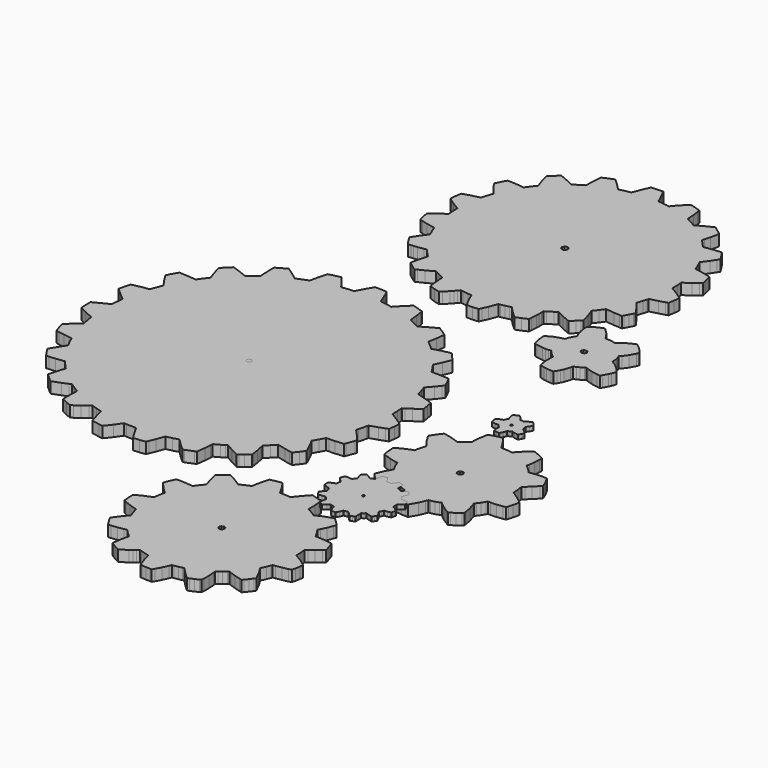
from build123d import *

# Parameters (mm, degrees)
F1_DEPTH = 4
F3_DEPTH = 4
F4_DEPTH = 4
F5_DEPTH = 4
F6_DEPTH = 4
F7_DEPTH = 4
F8_SCALE = 0.4
F9_SCALE = 0.4


with BuildPart() as f1:
    # F0 (on Top) → F1 (new body)
    with BuildSketch(Plane.XY):
        Polygon((23.9108488, -18.7886594), (23.9146842, -18.6433968), (23.8595916, -16.4864796), (23.7738158, -15.0065232), (23.7226856, -14.3345154), (24.5407942, -13.8230102), (26.3172956, -12.6499366), (28.8414714, -10.826115), (28.5121604, -8.7039196), (28.2519374, -7.2499474), (28.1538426, -6.773291), (28.1124914, -6.593332), (25.0680982, -5.5582312), (22.9747572, -4.9454308), (22.01545, -4.6955456), (21.7918792, -3.9081456), (21.3561168, -2.4926798), (20.8814416, -1.0893044), (20.6540354, -0.4556506), (22.6782376, 1.862709), (24.0355374, 3.534664), (24.6240046, 4.3075098), (23.7385098, 6.2651894), (22.764369, 8.179943), (21.7655648, 8.255381), (19.5552568, 8.3500214), (16.3961826, 8.3606386), (16.3210494, 8.4848192), (15.1572976, 10.2996238), (13.9192508, 12.0644412), (15.2479248, 14.8485098), (16.461613, 17.7282348), (16.3474654, 17.8732434), (16.0370774, 18.2477664), (14.087983, 20.4653388), (13.6251442, 20.9512662), (10.4994456, 20.2622658), (7.4361802, 19.4054222), (6.8437506, 19.971131), (4.5915072, 21.8988132), (4.0614854, 22.3148906), (4.6034706, 25.3661672), (4.9877726, 28.4496002), (3.8772592, 29.2330632), (1.9702526, 30.455997), (1.3988288, 30.8078886), (-1.4376146, 29.2856666), (-3.3132522, 28.1768296), (-4.151249, 27.645868), (-4.8799496, 28.0190702), (-6.2114938, 28.668218), (-8.006969, 29.4786558), (-8.1793334, 29.5463722), (-8.4907628, 32.6074278), (-8.7848186, 34.7417644), (-8.947658, 35.699065), (-10.9832648, 36.3875066), (-13.0477514, 36.9831366), (-15.362555, 34.7560646), (-17.5273208, 32.4503542), (-17.6686972, 32.4831456), (-17.849977, 32.5209154), (-19.7894956, 32.8667872), (-21.2554312, 33.0812902), (-21.923756, 33.166177), (-22.2601028, 34.0703154), (-23.05177, 36.0464608), (-24.3301012, 38.885495), (-26.4737088, 38.990524), (-27.9489154, 39.027354), (-28.6194754, 39.0279382), (-30.2497744, 36.2523532), (-31.7167006, 33.443418), (-34.0098888, 33.2503526), (-36.1485942, 32.9788774), (-36.7128806, 33.750885), (-38.0022862, 35.4296726), (-39.3599162, 37.0962682), (-39.9987008, 37.8454158), (-42.092499, 37.3626888), (-43.5215284, 36.9898168), (-44.167552, 36.806505), (-44.444666, 35.839527), (-44.994195, 33.710118), (-45.6448668, 30.6039012), (-45.9578456, 30.498288), (-46.4172808, 30.3335182), (-48.5317292, 29.4999156), (-49.7759482, 28.9416744), (-50.5316236, 29.5377616), (-52.2371828, 30.8222142), (-54.8022526, 32.580199), (-55.3996606, 32.2738242), (-57.9704708, 30.820106), (-58.3870054, 30.5686714), (-58.5425042, 30.4691796), (-58.4923138, 27.2542), (-58.4393802, 26.0959854), (-58.2780902, 24.0884964), (-59.508771, 23.214203), (-61.2976168, 21.8099894), (-61.6749846, 21.4999316), (-61.8149386, 21.3784434), (-64.6812016, 22.5122994), (-67.6328594, 23.5241846), (-69.1819038, 22.0371162), (-70.663943, 20.483068), (-70.4009514, 19.51609), (-69.7494414, 17.3981618), (-69.0473854, 15.3382726), (-68.704587, 14.4154398), (-70.1268092, 12.6059692), (-71.3766162, 10.8490766), (-72.3355424, 10.969625), (-74.4390942, 11.1702342), (-77.5653008, 11.358372), (-77.6617446, 11.201019), (-79.031846, 8.8139524), (-79.6522918, 7.604252), (-79.1342334, 6.741287), (-77.955013, 4.886452), (-76.1289308, 2.2892258), (-76.4598928, 1.540637), (-77.0027924, 0.1621536), (-77.520292, -1.2256008), (-77.7358872, -1.8635472), (-80.791939, -2.3768812), (-83.8255626, -3.0513782), (-84.008722, -3.6974526), (-84.3679034, -5.1299872), (-84.807806, -7.0441312), (-84.840445, -7.2258428), (-82.4493144, -9.3845634), (-79.9938456, -11.3869724), (-80.2655494, -13.6716516), (-80.4293286, -15.8220156), (-81.3003962, -16.219424), (-83.2036436, -17.1440094), (-85.9747836, -18.6100974), (-85.9023174, -21.5436958), (-85.8033844, -22.8988366), (-82.9478148, -24.3404136), (-80.03032, -25.6117344), (-79.9276786, -26.4241534), (-79.4066992, -29.3411656), (-79.254731, -29.9972476), (-81.5937408, -32.0196972), (-83.150329, -33.4850232), (-83.8437998, -34.1712042), (-83.2345808, -36.2314744), (-82.5456566, -38.2669288), (-81.5571648, -38.474904), (-79.3806896, -38.8714996), (-77.2329418, -39.1955782), (-76.2487172, -39.31158), (-75.2950488, -41.4047432), (-74.3124244, -43.3231036), (-74.8541302, -44.1171076), (-75.9991368, -45.8958696), (-77.6012418, -48.5889554), (-76.4423668, -50.3975116), (-75.6102374, -51.6168894), (-75.2213634, -52.1639292), (-74.218165, -52.1001498), (-72.0254084, -51.9003534), (-68.8838602, -51.4736842), (-68.7941982, -51.5879588), (-68.3654462, -52.1075412), (-66.872866, -53.8234382), (-65.9307546, -54.8106854), (-66.2409902, -55.7236122), (-66.876041, -57.7552312), (-67.6811448, -60.7649788), (-67.1951158, -61.2276906), (-64.9675104, -63.1656598), (-64.440181, -63.580772), (-61.4312716, -62.4683282), (-59.4148672, -61.61532), (-58.514742, -61.2069388), (-57.8475094, -61.6818426), (-55.363999, -63.299594), (-54.7796974, -63.6348232), (-54.8961818, -66.7214058), (-54.889781, -68.8620416), (-54.8616378, -69.836538), (-52.9407628, -70.7980804), (-50.98288, -71.6830926), (-50.1564148, -71.1043282), (-48.3800658, -69.7846204), (-46.6762846, -68.4363884), (-45.919898, -67.7978578), (-43.7400192, -68.531232), (-41.6670236, -69.1195976), (-41.4578546, -70.0617598), (-40.9391358, -72.1100412), (-40.0637248, -75.1172742), (-39.8834356, -75.156949), (-37.1736112, -75.6409714), (-35.8259888, -75.8179078), (-33.839023, -73.3105722), (-32.0063622, -70.7080628), (-31.1895744, -70.77075), (-28.2244292, -70.8525888), (-27.5504148, -70.8349358), (-26.0443726, -73.5315776), (-24.9266202, -75.3605808), (-24.3965984, -76.1773178), (-22.2561912, -76.0065028), (-20.1252836, -75.7361198), (-19.7176898, -74.8228374), (-18.8847476, -72.7689934), (-17.8105308, -69.8006986), (-15.5689554, -69.2850532), (-13.491972, -68.7121054), (-12.8239012, -69.4107578), (-11.3156238, -70.9011536), (-9.0108532, -73.0072708), (-8.3765136, -72.7872814), (-5.6322976, -71.6931764), (-5.0202846, -71.4169768), (-4.6251114, -68.237989), (-4.4601892, -66.0507442), (-4.409694, -65.0649194), (-4.2804842, -64.9987778), (-2.3892764, -63.9658868), (-1.107694, -63.2219716), (-0.5407914, -62.857888), (2.1510244, -64.3797036), (4.0538146, -65.3519902), (4.9334166, -65.7750272), (5.4803548, -65.3860008), (6.667119, -64.5081514), (8.3554316, -63.1807982), (8.2158332, -62.175136), (7.8624684, -59.9947492), (7.4482198, -57.8617334), (7.226046, -56.8927488), (8.879459, -55.2920154), (10.3669846, -53.7307536), (13.3522212, -54.4590478), (15.459837, -54.896131), (16.4203634, -55.0674286), (17.7473102, -53.3787858), (19.0032132, -51.6368284), (18.6109356, -50.7138686), (17.6849786, -48.708564), (16.242538, -45.8937614), (16.3210494, -45.7716128), (17.3980094, -43.9043572), (18.3988456, -41.995852), (19.364833, -41.9843966), (21.4852504, -41.9009576), (24.5965472, -41.6551364), (24.8701052, -41.0420058), (25.9449316, -38.290119), (26.1606284, -37.6541538), (24.1068606, -35.1940622), (22.6226624, -33.5805526), (21.9361004, -32.8704448), (22.1600776, -32.0831718), (22.8463856, -29.2010338), (22.9658418, -28.5381954), (25.9089906, -27.6080474), (27.9265126, -26.8816836), (28.8330386, -26.5268202), (29.0960556, -24.3952268), (29.2593014, -22.254083), (28.4465522, -21.6710514), (26.6032488, -20.4414882), align=None)
    extrude(amount=F1_DEPTH)


with BuildPart() as f3:
    # F2 (on Top) → F3 (new body)
    with BuildSketch(Plane.XY):
        Polygon((26.6032488, -20.4414882), (23.9108488, -18.7886594), (23.9146842, -18.6433968), (23.8595916, -16.4864796), (23.7738158, -15.0065232), (23.7226856, -14.3345154), (24.5407942, -13.8230102), (26.3172956, -12.6499366), (28.8414714, -10.826115), (28.5121604, -8.7039196), (28.2519374, -7.2499474), (28.1538426, -6.773291), (28.1124914, -6.593332), (25.0680982, -5.5582312), (22.9747572, -4.9454308), (22.01545, -4.6955456), (21.7918792, -3.9081456), (21.3561168, -2.4926798), (20.8814416, -1.0893044), (20.6540354, -0.4556506), (22.6782376, 1.862709), (24.0355374, 3.534664), (24.6240046, 4.3075098), (23.7385098, 6.2651894), (22.764369, 8.179943), (21.7655648, 8.255381), (19.5552568, 8.3500214), (16.3961826, 8.3606386), (16.3210494, 8.4848192), (15.1572976, 10.2996238), (13.9192508, 12.0644412), (15.2479248, 14.8485098), (16.461613, 17.7282348), (16.3474654, 17.8732434), (16.0370774, 18.2477664), (14.087983, 20.4653388), (13.6251442, 20.9512662), (10.4994456, 20.2622658), (7.4361802, 19.4054222), (6.8437506, 19.971131), (4.5915072, 21.8988132), (4.0614854, 22.3148906), (4.6034706, 25.3661672), (4.9877726, 28.4496002), (3.8772592, 29.2330632), (1.9702526, 30.455997), (1.3988288, 30.8078886), (-1.4376146, 29.2856666), (-3.3132522, 28.1768296), (-4.151249, 27.645868), (-4.8799496, 28.0190702), (-6.2114938, 28.668218), (-8.006969, 29.4786558), (-8.1793334, 29.5463722), (-8.4907628, 32.6074278), (-8.7848186, 34.7417644), (-8.947658, 35.699065), (-10.9832648, 36.3875066), (-13.0477514, 36.9831366), (-15.362555, 34.7560646), (-17.5273208, 32.4503542), (-17.6686972, 32.4831456), (-17.849977, 32.5209154), (-19.7894956, 32.8667872), (-21.2554312, 33.0812902), (-21.923756, 33.166177), (-22.2601028, 34.0703154), (-23.05177, 36.0464608), (-24.3301012, 38.885495), (-26.4737088, 38.990524), (-27.9489154, 39.027354), (-28.6194754, 39.0279382), (-30.2497744, 36.2523532), (-31.7167006, 33.443418), (-34.0098888, 33.2503526), (-36.1485942, 32.9788774), (-36.7128806, 33.750885), (-38.0022862, 35.4296726), (-39.3599162, 37.0962682), (-39.9987008, 37.8454158), (-42.092499, 37.3626888), (-43.5215284, 36.9898168), (-44.167552, 36.806505), (-44.444666, 35.839527), (-44.994195, 33.710118), (-45.6448668, 30.6039012), (-45.9578456, 30.498288), (-46.4172808, 30.3335182), (-48.5317292, 29.4999156), (-49.7759482, 28.9416744), (-50.5316236, 29.5377616), (-52.2371828, 30.8222142), (-54.8022526, 32.580199), (-55.3996606, 32.2738242), (-57.9704708, 30.820106), (-58.3870054, 30.5686714), (-58.5425042, 30.4691796), (-58.4923138, 27.2542), (-58.4393802, 26.0959854), (-58.2780902, 24.0884964), (-59.508771, 23.214203), (-61.2976168, 21.8099894), (-61.6749846, 21.4999316), (-61.8149386, 21.3784434), (-64.6812016, 22.5122994), (-67.6328594, 23.5241846), (-69.1819038, 22.0371162), (-70.663943, 20.483068), (-70.4009514, 19.51609), (-69.7494414, 17.3981618), (-69.0473854, 15.3382726), (-68.704587, 14.4154398), (-70.1268092, 12.6059692), (-71.3766162, 10.8490766), (-72.3355424, 10.969625), (-74.4390942, 11.1702342), (-77.5653008, 11.358372), (-77.6617446, 11.201019), (-79.031846, 8.8139524), (-79.6522918, 7.604252), (-79.1342334, 6.741287), (-77.955013, 4.886452), (-76.1289308, 2.2892258), (-76.4598928, 1.540637), (-77.0027924, 0.1621536), (-77.520292, -1.2256008), (-77.7358872, -1.8635472), (-80.791939, -2.3768812), (-83.8255626, -3.0513782), (-84.008722, -3.6974526), (-84.3679034, -5.1299872), (-84.807806, -7.0441312), (-84.840445, -7.2258428), (-82.4493144, -9.3845634), (-79.9938456, -11.3869724), (-80.2655494, -13.6716516), (-80.4293286, -15.8220156), (-81.3003962, -16.219424), (-83.2036436, -17.1440094), (-85.9747836, -18.6100974), (-85.9023174, -21.5436958), (-85.8033844, -22.8988366), (-82.9478148, -24.3404136), (-80.03032, -25.6117344), (-79.9276786, -26.4241534), (-79.4066992, -29.3411656), (-79.254731, -29.9972476), (-81.5937408, -32.0196972), (-83.150329, -33.4850232), (-83.8437998, -34.1712042), (-83.2345808, -36.2314744), (-82.5456566, -38.2669288), (-81.5571648, -38.474904), (-79.3806896, -38.8714996), (-77.2329418, -39.1955782), (-76.2487172, -39.31158), (-75.2950488, -41.4047432), (-74.3124244, -43.3231036), (-74.8541302, -44.1171076), (-75.9991368, -45.8958696), (-77.6012418, -48.5889554), (-76.4423668, -50.3975116), (-75.6102374, -51.6168894), (-75.2213634, -52.1639292), (-74.218165, -52.1001498), (-72.0254084, -51.9003534), (-68.8838602, -51.4736842), (-68.7941982, -51.5879588), (-68.3654462, -52.1075412), (-66.872866, -53.8234382), (-65.9307546, -54.8106854), (-66.2409902, -55.7236122), (-66.876041, -57.7552312), (-67.6811448, -60.7649788), (-67.1951158, -61.2276906), (-64.9675104, -63.1656598), (-64.440181, -63.580772), (-61.4312716, -62.4683282), (-59.4148672, -61.61532), (-58.514742, -61.2069388), (-57.8475094, -61.6818426), (-55.363999, -63.299594), (-54.7796974, -63.6348232), (-54.8961818, -66.7214058), (-54.889781, -68.8620416), (-54.8616378, -69.836538), (-52.9407628, -70.7980804), (-50.98288, -71.6830926), (-50.1564148, -71.1043282), (-48.3800658, -69.7846204), (-46.6762846, -68.4363884), (-45.919898, -67.7978578), (-43.7400192, -68.531232), (-41.6670236, -69.1195976), (-41.4578546, -70.0617598), (-40.9391358, -72.1100412), (-40.0637248, -75.1172742), (-39.8834356, -75.156949), (-37.1736112, -75.6409714), (-35.8259888, -75.8179078), (-33.839023, -73.3105722), (-32.0063622, -70.7080628), (-31.1895744, -70.77075), (-28.2244292, -70.8525888), (-27.5504148, -70.8349358), (-26.0443726, -73.5315776), (-24.9266202, -75.3605808), (-24.3965984, -76.1773178), (-22.2561912, -76.0065028), (-20.1252836, -75.7361198), (-19.7176898, -74.8228374), (-18.8847476, -72.7689934), (-17.8105308, -69.8006986), (-15.5689554, -69.2850532), (-13.491972, -68.7121054), (-12.8239012, -69.4107578), (-11.3156238, -70.9011536), (-9.0108532, -73.0072708), (-8.3765136, -72.7872814), (-5.6322976, -71.6931764), (-5.0202846, -71.4169768), (-4.6251114, -68.237989), (-4.4601892, -66.0507442), (-4.409694, -65.0649194), (-4.2804842, -64.9987778), (-2.3892764, -63.9658868), (-1.107694, -63.2219716), (-0.5407914, -62.857888), (2.1510244, -64.3797036), (4.0538146, -65.3519902), (4.9334166, -65.7750272), (5.4803548, -65.3860008), (6.667119, -64.5081514), (8.3554316, -63.1807982), (8.2158332, -62.175136), (7.8624684, -59.9947492), (7.4482198, -57.8617334), (7.226046, -56.8927488), (8.879459, -55.2920154), (10.3669846, -53.7307536), (13.3522212, -54.4590478), (15.459837, -54.896131), (16.4203634, -55.0674286), (17.7473102, -53.3787858), (19.0032132, -51.6368284), (18.6109356, -50.7138686), (17.6849786, -48.708564), (16.242538, -45.8937614), (16.3210494, -45.7716128), (17.3980094, -43.9043572), (18.3988456, -41.995852), (19.364833, -41.9843966), (21.4852504, -41.9009576), (24.5965472, -41.6551364), (24.8701052, -41.0420058), (25.9449316, -38.290119), (26.1606284, -37.6541538), (24.1068606, -35.1940622), (22.6226624, -33.5805526), (21.9361004, -32.8704448), (22.1600776, -32.0831718), (22.8463856, -29.2010338), (22.9658418, -28.5381954), (25.9089906, -27.6080474), (27.9265126, -26.8816836), (28.8330386, -26.5268202), (29.0960556, -24.3952268), (29.2593014, -22.254083), (28.4465522, -21.6710514), align=None)
        Polygon((-29.0229544, -17.9094892), (-28.3577538, -17.63395), (-27.6925278, -17.9094892), (-27.4169886, -18.5746898), (-27.6925278, -19.2398904), (-28.3577538, -19.5154296), (-29.0229544, -19.2398904), (-29.2984936, -18.5746898), align=None, mode=Mode.SUBTRACT)
    extrude(amount=F3_DEPTH)


with BuildPart() as f4:
    # F2 (on Top) → F4 (new body)
    with BuildSketch(Plane.XY):
        Polygon((57.6820792, -104.0868378), (56.8397644, -103.6212558), (56.843422, -103.4883122), (56.8269628, -102.8714224), (56.7632342, -101.516307), (56.7089798, -100.7939056), (56.5549288, -99.5558588), (57.3373504, -99.026218), (59.0232754, -97.7764618), (60.6522028, -96.4130914), (61.376941, -95.755079), (61.3353358, -95.5759582), (61.2127808, -95.1070742), (60.8035106, -93.694123), (60.3303848, -92.3011616), (60.0858082, -91.6788108), (59.0978498, -91.502865), (56.9271912, -91.2234396), (54.781323, -91.0839936), (53.8129734, -91.067636), (53.6755594, -90.7985992), (53.4611326, -90.4070328), (52.772945, -89.2398266), (52.0269724, -88.1083582), (51.6698738, -87.606124), (52.1189458, -86.769448), (53.0241764, -84.8800182), (53.8315916, -82.9137026), (54.1658302, -81.994883), (54.0454342, -81.8561736), (53.7201618, -81.4975764), (52.7012154, -80.439006), (51.6357362, -79.4271462), (51.1312922, -78.989301), (48.1225098, -80.051529), (47.0655142, -80.4973498), (46.1556608, -80.9230792), (45.2904352, -81.3561492), (45.182282, -81.2790602), (44.6714118, -80.934814), (43.5208934, -80.2188896), (42.336212, -79.5617408), (41.7881308, -79.2808168), (41.7976304, -78.3333714), (41.7247832, -76.2380238), (41.5271458, -74.1223054), (41.396539, -73.1526096), (41.2253938, -73.0853758), (40.7700226, -72.9194884), (39.3743688, -72.4546176), (37.9590046, -72.0532722), (37.3076724, -71.9021168), (36.6019588, -72.6162124), (35.1399348, -74.2445556), (33.8071714, -75.9307092), (33.2435708, -76.7205476), (32.5000112, -76.6315206), (31.1472072, -76.5336798), (29.7900344, -76.5026156), (29.17317, -76.5189478), (28.7403032, -75.6750328), (27.7022306, -73.852913), (26.5446256, -72.060562), (25.98039, -71.2705966), (25.3175008, -71.3549754), (23.8667798, -71.5932782), (22.4279206, -71.8966304), (21.7765884, -72.0477604), (20.940903, -75.1289582), (20.5437486, -77.2474452), (20.4094334, -78.2039838), (19.7133972, -78.4787356), (18.4716674, -79.0191714), (17.2584872, -79.6215832), (16.8644062, -79.831311), (16.7176704, -79.9159692), (15.9445198, -79.3752032), (14.1742668, -78.2427188), (12.3164854, -77.201395), (11.4465862, -76.7623814), (10.9019848, -77.1494012), (9.7299018, -78.0355564), (8.5989668, -78.9733498), (8.0944974, -79.4111696), (8.286115, -80.4028364), (8.7883492, -82.5257938), (9.4206314, -84.5862672), (9.7462086, -85.4967302), (9.2557854, -86.063201), (8.4051902, -87.1188504), (7.6084684, -88.2155462), (7.358253, -88.5854972), (7.2669908, -88.7282452), (6.3302896, -88.6064776), (4.2379646, -88.4232674), (2.1069046, -88.3595134), (1.1348212, -88.3748042), (0.8300212, -88.969723), (0.202057, -90.2993114), (-0.3650234, -91.656154), (-0.6096254, -92.278454), (0.0215138, -93.068521), (1.4521688, -94.7150252), (2.9715714, -96.2445878), (3.6822126, -96.8979012), (3.5142932, -97.6271606), (3.25501, -98.9564442), (3.0067758, -100.7407942), (2.994279, -100.909882), (0.170688, -102.0533392), (-2.5988518, -103.4551652), (-2.5844246, -104.1223216), (-2.5251918, -105.5892732), (-2.4009096, -107.0532022), (-2.3170642, -107.7161422), (-1.4035024, -108.1249044), (0.638302, -108.9186036), (1.7239234, -109.286294), (2.6885646, -109.5706724), (3.6229036, -109.8200496), (3.6525962, -109.949361), (3.8066472, -110.5451942), (4.193032, -111.8428548), (4.6446694, -113.119281), (4.8704246, -113.6920256), (4.2336466, -114.3964438), (2.9024834, -116.013738), (1.6481806, -117.7302446), (1.1044936, -118.5427144), (1.188466, -118.7062396), (1.417955, -119.1329088), (2.1551646, -120.4049408), (2.9490162, -121.642251), (3.3355788, -122.1871572), (4.3368468, -122.12066), (6.5109598, -121.87174), (8.6283292, -121.4938642), (9.5724726, -121.2788532), (9.7701608, -121.507631), (10.0728272, -121.836307), (11.0202218, -122.806333), (12.0146826, -123.7279212), (12.4805186, -124.1316034), (12.2446288, -125.049915), (11.8142004, -127.1017778), (11.4986308, -129.2031706), (11.3924334, -130.1757874), (11.5422934, -130.2820864), (11.944604, -130.5517074), (13.1870196, -131.3372786), (14.4638522, -132.0662332), (15.0585424, -132.3715158), (17.7264822, -130.62077), (18.6457336, -129.9349192), (19.4268852, -129.3032212), (20.1626978, -128.6749522), (20.4434948, -128.786128), (20.8639156, -128.9355562), (22.1516702, -129.3537164), (23.4589574, -129.7063192), (24.0588546, -129.8447746), (24.2770406, -130.7705538), (24.8534174, -132.7823354), (25.5542542, -134.7905864), (25.9145278, -135.6976712), (26.577671, -135.7792814), (28.0427176, -135.8909144), (29.5101772, -135.9356946), (30.1773336, -135.9362788), (30.691709, -135.068945), (31.724473, -133.1453776), (32.6200262, -131.1926764), (32.980122, -130.2897064), (33.7230974, -130.1954724), (35.0588072, -129.9696156), (36.3810804, -129.6769314), (36.8132614, -129.5660096), (36.97605, -129.5195276), (37.5963434, -130.2314388), (39.041832, -131.7559722), (40.5956262, -133.2141354), (41.3347154, -133.8482972), (41.9568376, -133.603238), (43.3081684, -133.0231782), (44.6316354, -132.3826156), (45.2263256, -132.0773838), (45.2447152, -131.8020732), (45.2776336, -131.0692578), (45.296836, -128.8882106), (45.1728078, -126.7351796), (45.0741542, -125.7746786), (45.6844146, -125.3403386), (46.7617048, -124.5174802), (47.7967802, -123.6418152), (48.1290122, -123.3430604), (48.2515418, -123.2259156), (49.1319312, -123.5667836), (51.1208274, -124.243846), (53.1741126, -124.8135934), (54.1223454, -125.0318556), (54.5597842, -124.527056), (55.4870112, -123.387358), (56.3621428, -122.20702), (56.7487562, -121.6621138), (55.3313346, -118.801261), (54.2267394, -116.9519378), (53.6922218, -116.1453608), (53.7525468, -116.0271492), (54.6058598, -114.2515876), (55.115587, -112.9970054), (55.270146, -112.5784388), (55.3241718, -112.4180124), (56.2621176, -112.3112562), (58.3378056, -111.9864664), (60.4196912, -111.5346512), (61.3619042, -111.2862392), (61.6629958, -109.9662266), (61.9386874, -108.4196714), (62.1097056, -107.0773576), (61.3136442, -106.4634396), (59.524265, -105.2086542), align=None)
        Polygon((29.0278566, -102.8758674), (29.7554142, -102.5744964), (30.4829972, -102.8758674), (30.7843682, -103.6034504), (30.4829972, -104.331008), (29.7554142, -104.632379), (29.0278566, -104.331008), (28.7264856, -103.6034504), align=None, mode=Mode.SUBTRACT)
    extrude(amount=F4_DEPTH)


with BuildPart() as f5:
    # F2 (on Top) → F5 (new body)
    with BuildSketch(Plane.XY):
        Polygon((42.6934122, -41.099867), (43.6513478, -41.26611), (43.6945278, -41.3949134), (44.4858394, -43.2498754), (44.8235578, -43.909615), (45.1435724, -44.4715138), (45.469937, -45.0113654), (43.9916062, -47.7026478), (43.1487834, -49.694084), (42.8132748, -50.6356366), (44.398184, -52.3563342), (45.5812906, -53.4461974), (45.9824836, -53.792882), (46.1386174, -53.919628), (47.1251788, -53.608859), (49.2049562, -52.807235), (51.157124, -51.8437114), (51.7704324, -51.4926072), (52.0001246, -51.3534152), (52.1180568, -51.4210808), (53.9148528, -52.3376906), (54.5973508, -52.6252694), (55.200042, -52.8579842), (55.7972214, -53.0597872), (55.941595, -53.9994348), (56.3925466, -56.0719224), (57.0276228, -58.1404476), (57.3780158, -59.0712814), (58.0999854, -59.1914742), (59.6993472, -59.368182), (61.3048812, -59.4452202), (62.0351566, -59.4458552), (63.6682496, -56.6262012), (64.5449306, -54.633114), (64.7892024, -53.9699454), (64.875664, -53.7156152), (65.629536, -53.5769058), (66.9742628, -53.2390858), (68.2936912, -52.8135342), (68.879974, -52.5817592), (69.0741316, -52.757959), (69.5955174, -53.2106124), (71.2732636, -54.508146), (73.089008, -55.6843946), (73.9553766, -56.172227), (74.5854744, -55.8001678), (75.9249942, -54.9081706), (77.20711, -53.9361634), (77.7652242, -53.4636472), (77.6354302, -52.4450818), (77.2038334, -50.2566178), (76.5904742, -48.1649278), (76.25334, -47.2490038), (76.4564384, -47.0150698), (76.7387086, -46.6546438), (77.5612622, -45.5358246), (78.2902168, -44.3546484), (78.5184104, -43.9582052), (78.5970488, -43.80357), (79.5459928, -43.8244742), (81.6645052, -43.7423814), (83.8110084, -43.4785516), (84.798535, -43.2999388), (85.0340184, -42.606341), (85.4957396, -41.0628846), (85.9747836, -38.7700012), (85.2117422, -38.0723648), (83.4737218, -36.6752124), (81.6596284, -35.4688902), (80.8176692, -34.9840804), (80.82153, -34.847784), (80.8047406, -34.2155018), (80.7148754, -32.8286872), (80.5152568, -31.45536), (80.4356786, -31.0050688), (80.3971214, -30.8360318), (81.136617, -30.24251), (82.7069212, -28.8179764), (84.1817214, -27.2358866), (84.82203, -26.4645648), (84.5577176, -25.7815842), (83.9184758, -24.3032026), (82.813525, -22.238716), (82.5316358, -22.2204534), (81.7807356, -22.1944438), (79.5512252, -22.2406718), (78.3906738, -22.342602), (77.3865864, -22.4826322), (76.432029, -22.651974), (75.9292106, -22.0718888), (75.4864378, -21.5997536), (74.9625882, -21.07438), (73.9309164, -20.1442066), (73.4371404, -19.7507098), (73.6266498, -18.8137292), (73.9139746, -16.7122094), (74.0278428, -14.55293), (74.0184194, -13.5596376), (73.3827336, -13.1968748), (71.939785, -12.4819156), (69.766942, -11.607165), (68.947665, -12.2320558), (67.2687758, -13.6980422), (65.7668484, -15.2736296), (65.1432784, -16.0278826), (65.0094712, -16.0040066), (63.005589, -15.760827), (62.263909, -15.72514), (61.6158026, -15.7115256), (60.983495, -15.7280102), (60.8611686, -15.495905), (60.5261172, -14.8911818), (59.3955632, -13.0950462), (58.0951594, -11.3660682), (57.4496438, -10.6115612), (56.7290458, -10.7410758), (55.1636438, -11.1213138), (54.3363912, -11.3585752), (53.624988, -11.5985798), (52.9364448, -11.847703), (52.3678404, -15.0569168), (52.2296644, -17.2290486), (52.2359382, -18.2066946), (52.1180568, -18.2745126), (50.4258326, -19.3747644), (49.8358922, -19.824319), (49.3339628, -20.232751), (48.8563158, -20.6459582), (47.9729546, -20.3049632), (45.9530704, -19.6589904), (43.8457848, -19.1724026), (42.8607728, -19.0049404), (42.3993818, -19.5722748), (41.9384734, -20.1635868), (41.4399476, -20.8639156), (40.566467, -22.2156274), (40.2014182, -22.8500178), (40.675306, -23.7661704), (41.8273738, -25.6762504), (43.1178208, -27.4312126), (43.7429148, -28.1737562), (43.6945278, -28.30068), (43.4930296, -28.897961), (43.3037488, -29.5155112), (43.1094134, -30.230064), (42.9424592, -30.9518304), (42.8276512, -31.5879734), (42.7307502, -32.2111878), (41.8305742, -32.5178674), (39.8698974, -33.3234792), (37.944552, -34.3067386), (37.077904, -34.8115128), (37.0937536, -35.5418136), (37.187251, -37.1468142), (37.3872252, -38.7437122), (37.5156222, -39.4645134), (37.77488, -39.5785086), (38.4665982, -39.8622266), (40.5767032, -40.5851868), align=None)
        Polygon((60.7863402, -34.2887046), (61.5263438, -33.9822028), (62.2663474, -34.2887046), (62.5728492, -35.0287082), (62.2663474, -35.7687118), (61.5263438, -36.0752136), (60.7863402, -35.7687118), (60.4798384, -35.0287082), align=None, mode=Mode.SUBTRACT)
    extrude(amount=F5_DEPTH)


with BuildPart() as f6:
    # F2 (on Top) → F6 (new body)
    with BuildSketch(Plane.XY):
        Polygon((53.3574752, 44.8410584), (52.5276318, 45.310298), (52.5354804, 45.4357486), (52.5027144, 46.0175864), (52.3541244, 47.2861132), (52.1951966, 47.9479864), (52.0312396, 48.5182926), (51.8319512, 49.062513), (52.0146788, 49.2492538), (52.4673068, 49.7553996), (53.7190188, 51.4693662), (54.7335456, 53.4163778), (55.0068242, 54.1004506), (55.1026584, 54.3654996), (54.6126162, 55.0181272), (54.0630872, 55.647717), (53.4052018, 56.3439818), (52.0469114, 57.5149218), (51.3922772, 58.0022716), (51.1141218, 57.911619), (50.3854212, 57.632346), (48.3542086, 56.621807), (46.591347, 55.3506894), (45.8874876, 54.6989508), (45.7705206, 54.7429182), (45.6199748, 54.7948866), (44.6354962, 55.0384218), (43.9609992, 55.140098), (43.2801522, 55.1948858), (42.6837348, 55.221378), (42.101897, 55.1896026), (41.6375088, 56.0217828), (40.3985984, 57.7318632), (38.8643622, 59.2961984), (38.2927352, 59.7861136), (38.0709424, 59.9574112), (37.3023638, 59.6781128), (35.6625398, 58.944129), (34.8316042, 58.4653136), (34.1234776, 58.0199246), (33.468691, 57.5328034), (33.4697324, 57.2395604), (33.500314, 56.4746902), (33.8356448, 54.231032), (34.4987118, 52.1605256), (34.9098616, 51.2808474), (34.6266262, 50.907315), (34.1951818, 50.1946164), (33.7387184, 49.2739934), (33.4167734, 48.4024432), (33.269428, 47.8421192), (32.3378576, 47.65675), (30.3306988, 47.0028778), (29.7800522, 46.770798), (29.272357, 46.5212684), (28.3701236, 46.0255112), (27.4899628, 45.47616), (27.4960588, 45.2523606), (27.5741638, 43.8285636), (27.79268, 42.3978832), (28.1142694, 41.127299), (28.2951174, 40.5634444), (28.3717238, 40.3520148), (29.3913814, 40.0543014), (31.6304422, 39.6808198), (32.805624, 39.6352268), (33.8050124, 39.6757906), (34.4954606, 39.7495268), (34.7590872, 39.7907764), (35.1807018, 39.2235944), (35.8068372, 38.5324096), (36.5722154, 37.8424948), (37.0505482, 37.4870726), (37.3949214, 37.2450614), (37.5320306, 37.163121), (37.4248172, 36.2285788), (37.419788, 34.113724), (37.5449592, 32.9476862), (37.740209, 31.942659), (37.994463, 30.9414672), (38.2061466, 30.8657752), (39.5916404, 30.5084226), (40.5384254, 30.3526444), (42.3240962, 30.1966376), (42.914189, 30.1852584), (43.1380392, 30.195266), (43.7346344, 31.0803036), (44.2693552, 31.9991232), (44.7835782, 33.0923392), (45.463079, 35.1570036), (45.6535028, 36.0847132), (46.5779612, 36.4254542), (47.4711268, 36.8640868), (48.540416, 37.5617994), (48.8790234, 37.8128276), (49.0048296, 37.9113288), (49.8532658, 37.531294), (51.8668254, 36.8721894), (54.033166, 36.5030766), (55.054246, 36.4408974), (55.1880786, 36.6210596), (55.5228506, 37.1083332), (56.4088534, 38.669849), (56.819165, 39.537894), (57.3107566, 40.8817064), (57.3699132, 41.0984954), (56.7064398, 41.9419786), (56.0021486, 42.7331632), (55.1138344, 43.558968), (54.2073592, 44.284519), align=None)
        Polygon((41.7023804, 45.7988924), (42.429938, 46.1002634), (43.1574956, 45.7988924), (43.4588666, 45.0713348), (43.1574956, 44.3437772), (42.429938, 44.0424062), (41.7023804, 44.3437772), (41.4010094, 45.0713348), align=None, mode=Mode.SUBTRACT)
    extrude(amount=F6_DEPTH)


with BuildPart() as f7:
    # F2 (on Top) → F7 (new body)
    with BuildSketch(Plane.XY):
        Polygon((-43.3777898, 93.0624758), (-40.684323, 91.4499568), (-40.6880568, 91.3106886), (-40.633142, 89.2432302), (-40.489886, 87.3592868), (-40.470201, 87.1828584), (-43.0090834, 85.4793058), (-44.7187574, 84.204048), (-45.4785222, 83.5974198), (-45.239178, 82.2747656), (-44.73194, 80.0923722), (-44.5511936, 79.4535114), (-43.584368, 79.176245), (-41.4663382, 78.6393652), (-38.3799842, 78.0465546), (-38.3356104, 77.914754), (-38.2738122, 77.7484856), (-37.5777506, 75.9941076), (-36.9925092, 74.7005364), (-36.7160302, 74.1175556), (-38.5195572, 71.6423002), (-39.6813786, 69.8594234), (-40.1884896, 69.0271924), (-39.083234, 67.2145468), (-38.2775206, 65.9975566), (-37.8931932, 65.456689), (-36.893754, 65.5257516), (-35.8801924, 65.6148802), (-34.7129608, 65.753869), (-32.5740268, 66.0736804), (-31.6145164, 66.2507184), (-30.1512986, 64.6005058), (-29.168852, 63.574041), (-28.7009332, 63.1288044), (-28.984956, 62.2191288), (-29.5577006, 60.1803724), (-30.2366172, 57.1517018), (-30.0985936, 57.032398), (-29.7277028, 56.7263788), (-28.5801816, 55.8243486), (-26.8625574, 54.5769038), (-25.9483352, 54.9793668), (-23.9704118, 55.9435), (-21.2241384, 57.470675), (-20.5440026, 57.0793626), (-19.2893442, 56.4150002), (-18.0142134, 55.791227), (-17.4261272, 55.5254668), (-17.3846236, 54.5688266), (-17.2216064, 52.468145), (-16.9700956, 50.3487182), (-16.8274492, 49.3772444), (-14.8148802, 48.6963212), (-12.7713232, 48.1150676), (-12.047601, 48.8195366), (-10.5231438, 50.396521), (-9.7484946, 51.2489196), (-9.0905076, 52.0211558), (-8.4690204, 52.7782282), (-7.6967842, 52.6397728), (-5.5367682, 52.3546578), (-4.2324528, 52.2562582), (-3.8647624, 51.3712206), (-2.990469, 49.4552732), (-1.5626588, 46.685073), (0.5581904, 46.7368128), (2.6751788, 46.8871554), (3.1166308, 47.786417), (4.0128698, 49.7946426), (5.1357276, 52.729257), (5.9080654, 52.8670012), (7.2960484, 53.163724), (8.6740238, 53.503576), (9.2946474, 53.6800806), (10.6217974, 52.2581124), (11.4173762, 51.467385), (13.7055352, 49.3560354), (13.8773154, 49.4177574), (15.6839666, 50.1299226), (17.6229264, 50.9973326), (17.726406, 51.9981942), (17.879568, 54.1881568), (17.9252118, 55.3391324), (17.9338732, 56.3522876), (17.9234592, 57.3320164), (18.6039506, 57.7227192), (20.440777, 58.8944466), (21.5061546, 59.6526112), (22.357588, 59.2093558), (24.255984, 58.3073256), (26.2216646, 57.4619882), (27.1273016, 57.108598), (28.7210754, 58.5104494), (29.7773852, 59.517534), (30.2467264, 59.9861132), (29.4062404, 63.0660918), (28.372562, 66.0404826), (28.5802578, 66.2797252), (29.7535092, 67.7600118), (30.9561992, 69.4400694), (33.9945726, 69.1150764), (36.124007, 68.993639), (37.0961666, 68.970017), (37.4268492, 69.545454), (38.1167894, 70.8319386), (38.7736334, 72.1359746), (39.0475724, 72.7406724), (38.486588, 73.5738686), (37.206047, 75.3479824), (35.2284792, 77.7841726), (35.2761804, 77.914754), (35.9274872, 79.8739068), (36.3151674, 81.2395124), (36.4347506, 81.6916578), (36.4744254, 81.8646064), (39.4499084, 82.600927), (41.4838642, 83.220687), (42.4074844, 83.532472), (42.7250098, 85.631782), (42.9426878, 87.7430554), (42.1305736, 88.3324624), (40.3183344, 89.5589268), (37.6248676, 91.1714458), (37.6286268, 91.3106886), (37.573712, 93.3781724), (37.4304306, 95.2620904), (37.410771, 95.4385442), (39.949628, 97.1420714), (41.6593274, 98.4173292), (42.4190668, 99.0239574), (42.179748, 100.3466116), (41.6724846, 102.529005), (41.4917382, 103.1678658), (40.524938, 103.4451576), (38.4068828, 103.982012), (35.3205542, 104.5748226), (35.2761804, 104.7066232), (35.2143568, 104.8728916), (34.5183206, 106.6272696), (33.9330538, 107.9208408), (33.6566002, 108.5038216), (35.4601018, 110.979077), (36.6219486, 112.7619538), (37.1290342, 113.5941848), (36.0237786, 115.4068558), (35.2180652, 116.6237952), (34.8337632, 117.1647136), (33.834324, 117.0956256), (32.820737, 117.006497), (31.6535054, 116.8675082), (29.5145968, 116.5476968), (28.555061, 116.3706588), (27.0918686, 118.0208714), (26.1093966, 119.0473362), (25.6415032, 119.4925728), (25.9255006, 120.4022484), (26.4982706, 122.4410048), (27.1771618, 125.4696754), (27.0391636, 125.5889792), (26.6682728, 125.8949984), (25.5207516, 126.7970286), (23.8031274, 128.0444734), (22.8888798, 127.6420104), (20.9109818, 126.6778772), (18.1647084, 125.1507022), (17.4845472, 125.5420146), (16.2298888, 126.206377), (14.954758, 126.8301502), (14.3666718, 127.0959104), (14.3251682, 128.0525506), (14.1621764, 130.1532322), (13.9106402, 132.272659), (13.7679938, 133.2441074), (11.7554502, 133.925056), (9.7118932, 134.5063096), (8.9881456, 133.801866), (7.4636884, 132.2248562), (6.6890646, 131.372483), (6.0310522, 130.6002214), (5.409565, 129.843149), (4.6373542, 129.9816044), (2.4773382, 130.2667194), (1.1730228, 130.365119), (0.8053324, 131.2501566), (-0.068961, 133.166104), (-1.4967966, 135.9363042), (-3.6176458, 135.8845644), (-5.7346342, 135.7342218), (-6.1760862, 134.8349602), (-7.0723252, 132.8267346), (-8.1951576, 129.8921202), (-8.9674954, 129.754376), (-10.3555038, 129.4576532), (-11.7334538, 129.1178012), (-12.3541028, 128.9412966), (-13.6812528, 130.3632648), (-14.4768062, 131.1539922), (-16.7649906, 133.2653418), (-16.9367708, 133.2036452), (-18.7433966, 132.4914546), (-20.6823818, 131.6240446), (-20.785836, 130.623183), (-20.938998, 128.4332204), (-20.9846672, 127.2822448), (-20.9933286, 126.2690896), (-20.9828892, 125.2893608), (-21.6633806, 124.898658), (-23.500207, 123.7269306), (-24.56561, 122.968766), (-25.4170434, 123.4120214), (-27.3154394, 124.3140516), (-29.2810946, 125.159389), (-30.186757, 125.5127792), (-31.7805054, 124.1109278), (-32.8368152, 123.1038432), (-33.3061564, 122.6352894), (-32.4656704, 119.5553108), (-31.4320174, 116.5808946), (-31.6396878, 116.341652), (-32.8129392, 114.8613654), (-34.0156292, 113.1813078), (-37.0540026, 113.5063008), (-39.183437, 113.6277382), (-40.1555966, 113.6513602), (-40.4862792, 113.0759232), (-41.1762448, 111.7894386), (-41.8330888, 110.4853772), (-42.1070278, 109.8807048), (-41.5460434, 109.0475086), (-40.265477, 107.2733948), (-38.2879346, 104.8372046), (-38.3356104, 104.7066232), (-38.9869426, 102.7474704), (-39.3746228, 101.3818902), (-39.4941806, 100.9297448), (-39.5338808, 100.7567708), (-42.5093638, 100.0204502), (-44.5432942, 99.4006648), (-45.4669398, 99.0889052), (-45.7844652, 96.9895952), (-46.0021178, 94.8783218), (-45.190029, 94.2889148), align=None)
        Polygon((-2.319655, 92.1006286), (-1.529715, 92.4278314), (-0.7398004, 92.1006286), (-0.4125976, 91.3106886), (-0.7398004, 90.5207486), (-1.529715, 90.1935712), (-2.319655, 90.5207486), (-2.6468578, 91.3106886), align=None, mode=Mode.SUBTRACT)
    extrude(amount=F7_DEPTH)


with BuildPart() as f8_1:
    # F8: copy of F4
    add(f4.part.scale(F8_SCALE).moved(Location((36.91580628, -21.64512816, 2.4))))


with BuildPart() as f9_1:
    # F9: copy of F6
    add(f6.part.scale(F9_SCALE).moved(Location((37.54370952, -21.01722492, 2.4))))


solid = Compound([f1.part, f3.part, f4.part, f5.part, f6.part, f7.part, f8_1.part, f9_1.part])
